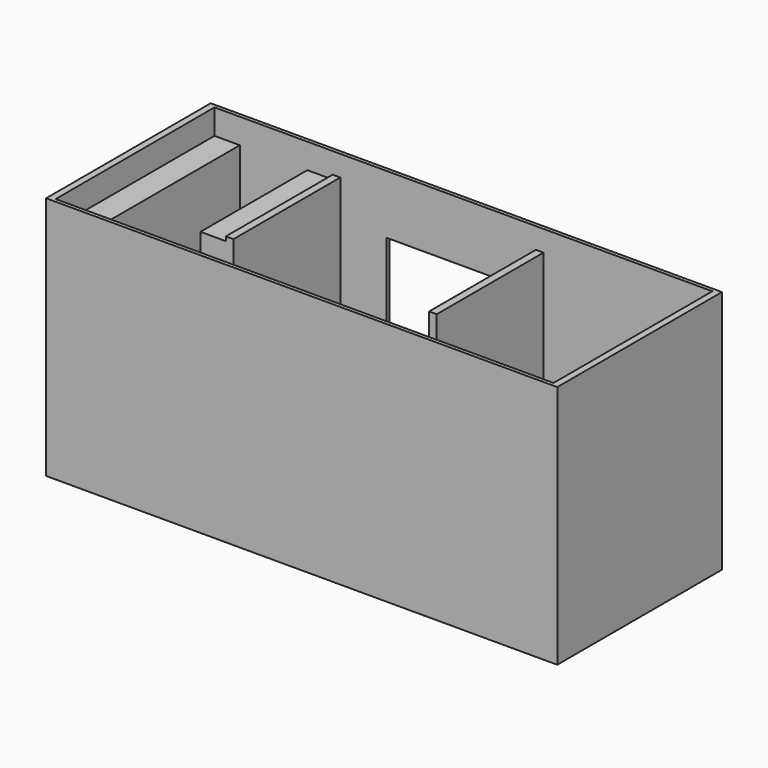
from build123d import *

# Parameters (mm, degrees)
F0_W     = 6056
F0_H     = 2438
F0_W_2   = 5898
F0_H_2   = 2352
F1_DEPTH = 2896
F2_DEPTH = 99
F3_W     = 90
F3_H     = 1582
F4_DEPTH = 2550
F5_W     = 1560
F5_H     = 2100
F6_DEPTH = 49
F8_DEPTH = 2500
F7_W     = 800
F7_H     = 300
F7_W_2   = 500
F7_H_2   = 1582
F9_DEPTH = 1000


with BuildPart() as f1:
    # F0 (on Top) → F1 (new body)
    with BuildSketch(Plane.XY):
        Rectangle(F0_W, F0_H)
        Rectangle(F0_W_2, F0_H_2, mode=Mode.SUBTRACT)
    extrude(amount=F1_DEPTH)

    # F0 (on Top) → F2 (join)
    with BuildSketch(Plane.XY):
        Rectangle(F0_W_2, F0_H_2)
    extrude(amount=F2_DEPTH)

    # F3 (on face) → F4 (join)
    with BuildSketch(Plane.XY.offset(99)):
        with Locations((-1504, 385)):
            Rectangle(F3_W, F3_H)
        with Locations((904, 385)):
            Rectangle(F3_W, F3_H)
    extrude(amount=F4_DEPTH)

    # F5 (on face) → F6 (cut)
    with BuildSketch(Plane(origin=(0, 1219, 0), x_dir=(-1, 0, 0), z_dir=(0, 1, 0))):
        with Locations((129, 1149)):
            Rectangle(F5_W, F5_H)
    extrude(amount=-F6_DEPTH, mode=Mode.SUBTRACT)

    # F7 (on face) → F8 (join)
    with BuildSketch(Plane.XY.offset(99)):
        Polygon((-2649, 1176), (-2949, 1176), (-2949, -1176), (-2649, -1176), (-2649, 876), align=None)
        Polygon((-1549, 1176), (-1849, 1176), (-1849, 876), (-1849, -406), (-1549, -406), align=None)
    extrude(amount=F8_DEPTH)

    # F7 (on face) → F9 (join)
    with BuildSketch(Plane.XY.offset(99)):
        with Locations((-2249, 1026)):
            Rectangle(F7_W, F7_H)
        with Locations((-1209, 385)):
            Rectangle(F7_W_2, F7_H_2)
    extrude(amount=F9_DEPTH)


solid = f1.part
